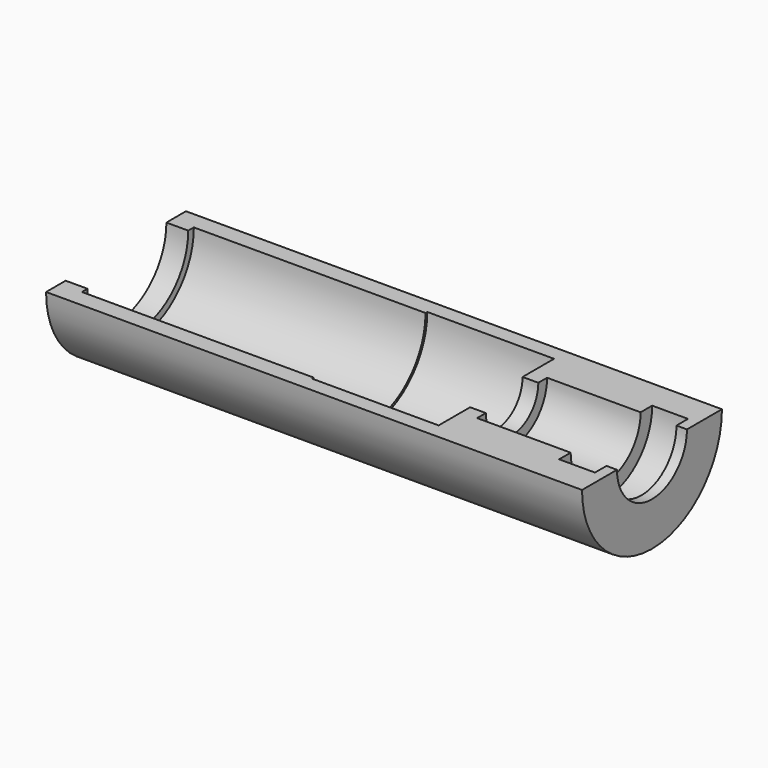
from build123d import *

# Parameters (mm, degrees)
F1_ANGLE = 180


with BuildPart() as f1:
    # F0 (on Top) → F1 (revolve)
    with BuildSketch(Plane.XY):
        Polygon((-9.93075, 8.25), (-9.93075, 3.75), (-8.13075, 3.75), (-8.13075, 5), (2.56925, 5), (2.56925, 6.65), (6.66925, 6.65), (6.66925, 5), (7.86925, 5), (7.86925, 10), (-8.13075, 10), (-53.43075, 10), (-53.43075, 7.2), (-50.93075, 7.2), (-50.93075, 8), (-24.43075, 8), (-24.43075, 8.25), align=None)
    revolve(axis=Axis((-13.705372, 0, 0), (-1, 0, 0)), revolution_arc=F1_ANGLE)


solid = f1.part
